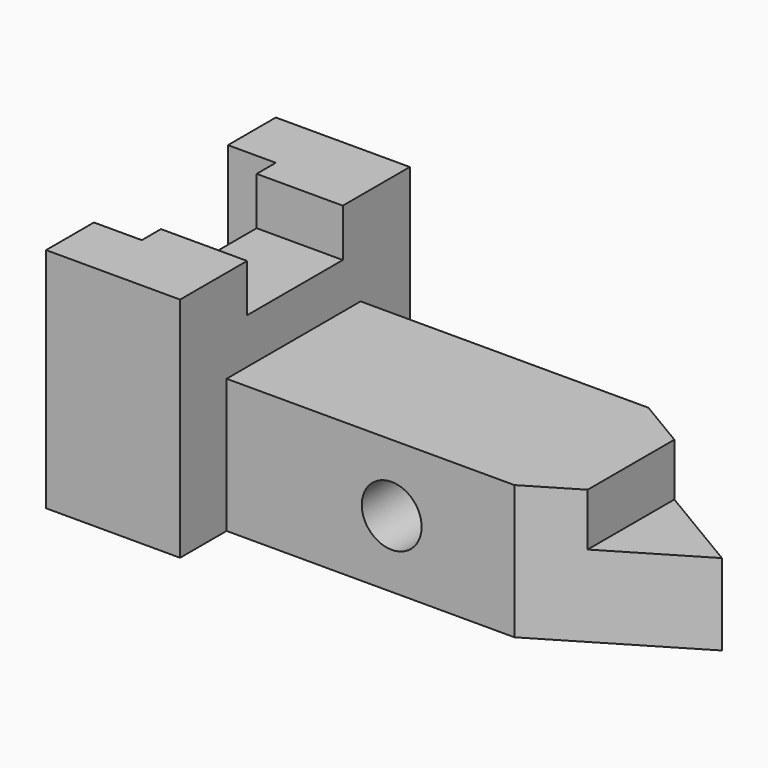
from build123d import *

# Parameters (mm, degrees)
F1_DEPTH  = 48.26
F0_W      = 61.1098407692
F0_H      = 35.56
F2_DEPTH  = 28.448
F3_DEPTH  = 28.448
F5_DEPTH  = 48.26
F4_W      = 18.288
F4_H      = 25.4
F6_DEPTH  = 10.16
F8_DEPTH  = 11.176
F9_R      = 6.35
F10_DEPTH = 35.56


with BuildPart() as f1:
    # F0 (on Top) → F1 (new body)
    with BuildSketch(Plane.XY):
        Polygon((-28.448, 30.8379339441), (-28.448, -30.1220660559), (0, -30.1220660559), (0, -17.78), (0, 17.78), (0, 30.8379339441), align=None)
    extrude(amount=F1_DEPTH)

    # F0 (on Top) → F2 (join)
    with BuildSketch(Plane.XY):
        with Locations((30.5549203846, 0)):
            Rectangle(F0_W, F0_H)
    extrude(amount=F2_DEPTH)

    # F0 (on Top) → F3 (join)
    with BuildSketch(Plane.XY):
        Polygon((61.1098407692, 17.78), (61.1098407692, -17.78), (90.932, 0), align=None)
    extrude(amount=F3_DEPTH)

    # F4 (on face) → F5 (cut)
    with BuildSketch(Plane.XY.offset(48.26)):
        Polygon((-28.448, 18.1379339441), (-28.448, -17.4220660559), (-18.288, -17.4220660559), (-18.288, -12.3420660559), (-18.288, 13.0579339441), (-18.288, 18.1379339441), align=None)
    extrude(amount=-F5_DEPTH, mode=Mode.SUBTRACT)

    # F4 (on face) → F6 (cut)
    with BuildSketch(Plane.XY.offset(48.26)):
        with Locations((-9.144, 0.3579339441)):
            Rectangle(F4_W, F4_H)
    extrude(amount=-F6_DEPTH, mode=Mode.SUBTRACT)

    # F7 (on face) → F8 (cut)
    with BuildSketch(Plane.XY.offset(28.448)):
        Polygon((90.932, 0), (71.628, 11.509063356), (71.628, -11.509063356), align=None)
    extrude(amount=-F8_DEPTH, mode=Mode.SUBTRACT)

    # F9 (on face) → F10 (cut)
    with BuildSketch(Plane.XZ.offset(17.78)):
        with Locations((35.052, 14.224)):
            Circle(F9_R)
    extrude(amount=-F10_DEPTH, mode=Mode.SUBTRACT)


solid = f1.part
